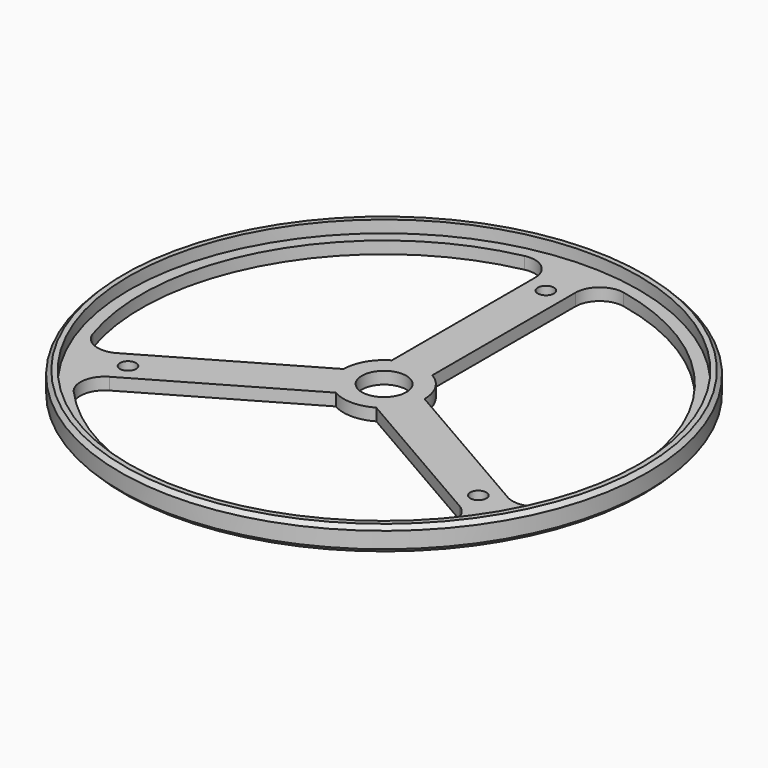
from build123d import *

# Parameters (mm, degrees)
SKETCH_R           = 65.25
PAD_DEPTH          = 6
SKETCH001_R        = 5.5
POCKET_DEPTH       = 6.001
SKETCH002_R        = 2
POCKET001_DEPTH    = 375.305752
POLARPATTERN_COUNT = 3
CHAMFER_SIZE       = 1
FILLET_R           = 6
SKETCH003_R        = 63
POCKET002_DEPTH    = 3


with BuildPart() as part:
    # Sketch → Pad (new body)
    with BuildSketch(Plane.XY):
        Circle(SKETCH_R)
    extrude(amount=PAD_DEPTH)

    # Sketch001 → Pocket (cut, through all)
    with BuildSketch(Plane.XY):
        Circle(SKETCH001_R)
    extrude(amount=POCKET_DEPTH, mode=Mode.SUBTRACT)

    # Sketch002 → Pocket001 (cut, through all)
    with BuildSketch(Plane.XY):
        with Locations((0, 50)):
            Circle(SKETCH002_R)
        with BuildLine():
            ThreePointArc((-5, 59.791304), (-51.961524, 30), (-54.280788, -25.565525))
            Line((-10, 0), (-54.280788, -25.565525))
            ThreePointArc((-5, 8.660254), (-8.660254, 5), (-10, 0))
            Line((-5, 8.660254), (-5, 59.791304))
        make_face()
    pocket001 = extrude(amount=POCKET001_DEPTH, mode=Mode.SUBTRACT)

    # PolarPattern: Pocket001 ×3 about axis
    polarpattern_axis = Axis((0, 0, 0), (0, 0, 1))
    for i in range(1, POLARPATTERN_COUNT):
        add(pocket001.rotate(polarpattern_axis, i * 360 / POLARPATTERN_COUNT), mode=Mode.SUBTRACT)

    # Chamfer
    chamfer_edges = [part.edges().sort_by_distance(p)[0] for p in [
        (-65.25, 0, 6),
        (-65.25, 0, 0),
    ]]
    chamfer(chamfer_edges, length=CHAMFER_SIZE)

    # Fillet
    fillet_edges = [part.edges().sort_by_distance(p)[0] for p in [
        (-54.280788, -25.565525, 3),
        (-5, 59.791304, 3),
        (5, 59.791304, 3),
        (54.280788, -25.565525, 3),
        (49.280788, -34.225779, 3),
        (-49.280788, -34.225779, 3),
    ]]
    fillet(fillet_edges, radius=FILLET_R)

    # Sketch003 (on Face25 of Fillet) → Pocket002 (cut)
    with BuildSketch(Plane.XY.offset(6)):
        Circle(SKETCH003_R)
    extrude(amount=-POCKET002_DEPTH, mode=Mode.SUBTRACT)


solid = part.part
